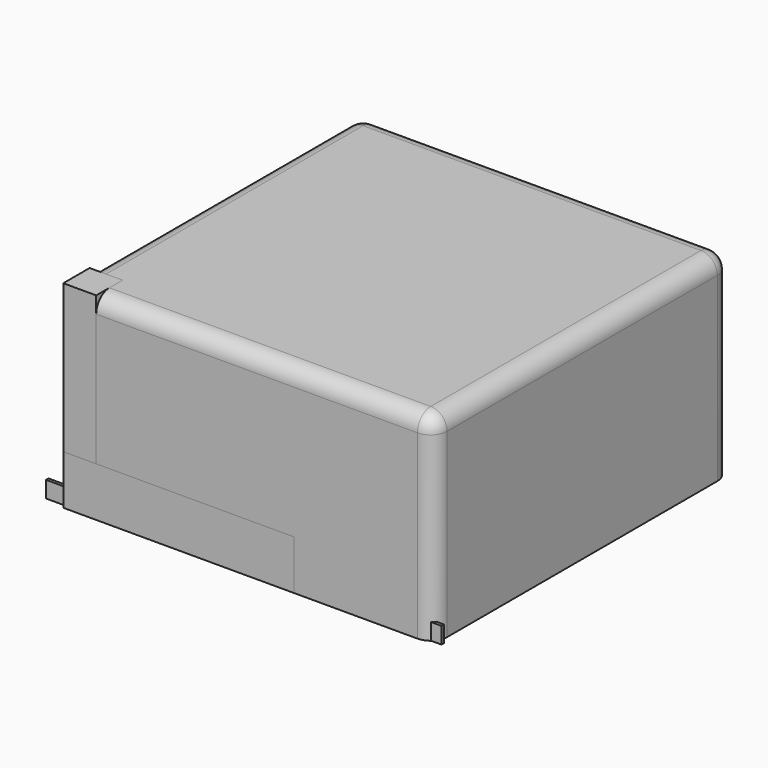
from build123d import *

# Parameters (mm, degrees)
F0_W      = 2438.4
F0_H      = 19.05
F1_DEPTH  = 101.6
F2_W      = 2286
F2_H      = 2286
F3_DEPTH  = 1219.2
F4_R      = 101.6
F5_W      = 203.2
F5_H      = 203.2
F6_DEPTH  = 1219.2
F7_W      = 1422.4
F7_H      = 1422.4
F8_DEPTH  = 304.8
F9_W      = 1268.3842550854
F9_H      = 1219.2
F10_DEPTH = 203.2


with BuildPart() as f1:
    # F0 (on Top) → F1 (new body)
    with BuildSketch(Plane.XY):
        with Locations((1094.3710106479, 33.1334760413)):
            Rectangle(F0_W, F0_H)
    extrude(amount=F1_DEPTH)


with BuildPart() as f3:
    # F2 (on Top) → F3 (new body)
    with BuildSketch(Plane.XY):
        with Locations((1143, 1143)):
            Rectangle(F2_W, F2_H)
    extrude(amount=F3_DEPTH)

    # F4
    f4_edges = [f3.edges().sort_by_distance(p)[0] for p in [
        (0, 1143, 1219.2),
        (1143, 0, 1219.2),
        (2286, 1143, 1219.2),
        (1143, 2286, 1219.2),
        (0, 0, 609.6),
        (2286, 0, 609.6),
        (0, 2286, 609.6),
        (2286, 2286, 609.6),
    ]]
    fillet(f4_edges, radius=F4_R)


with BuildPart() as f6:
    # F5 (on Top) → F6 (new body)
    with BuildSketch(Plane.XY):
        with Locations((101.6, 101.6)):
            Rectangle(F5_W, F5_H)
    extrude(amount=F6_DEPTH)


with BuildPart() as f8:
    # F7 (on Top) → F8 (new body)
    with BuildSketch(Plane.XY):
        with Locations((711.2, 711.2)):
            Rectangle(F7_W, F7_H)
    extrude(amount=F8_DEPTH)

    # F9 (on face) → F10 (cut)
    with BuildSketch(Plane.XY.offset(304.8)):
        with Locations((702.6189863682, 701.4409899712)):
            Rectangle(F9_W, F9_H)
    extrude(amount=-F10_DEPTH, mode=Mode.SUBTRACT)


solid = Compound([f1.part, f3.part, f6.part, f8.part])
